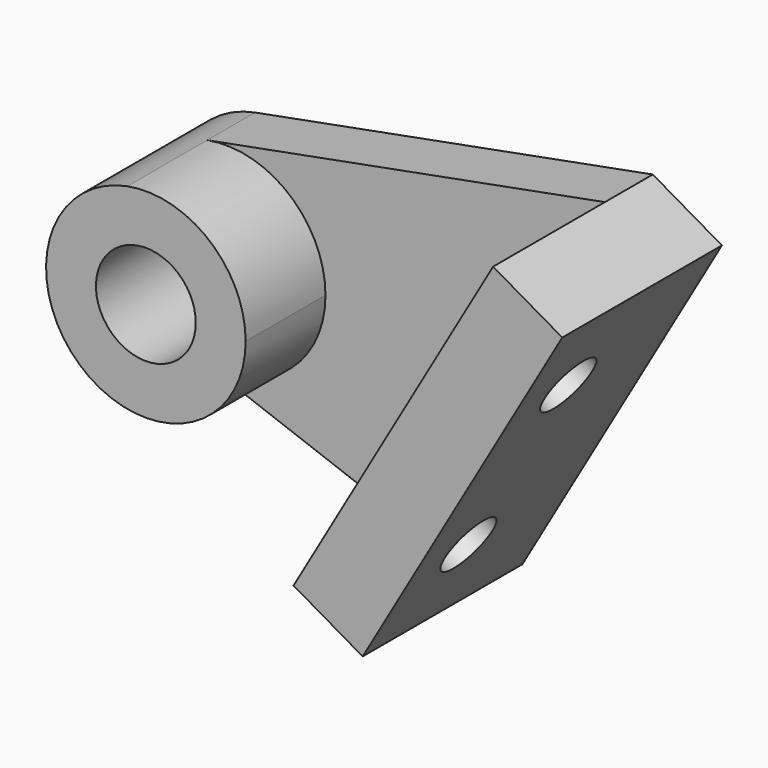
from build123d import *

# Parameters (mm, degrees)
F1_DEPTH = 9.525
F0_R     = 7.9375
F2_DEPTH = 25.4
F3_DEPTH = 31.75
F5_D     = 9.525
F5_DEPTH = 12.7
F5_TIP   = 2.8615986981


with BuildPart() as f1:
    # F0 (on Front) → F1 (new body)
    with BuildSketch(Plane.XZ):
        with BuildLine():
            ThreePointArc((-2.933616207, 15.6015871292), (10.135197771, 12.2185674751), (15.875, 0))
            ThreePointArc((15.875, 0), (9.0714869373, -13.0278067896), (-5.5075196531, -14.8890178411))
            Line((-5.5075196531, -14.8890178411), (28.575, -27.4963065702))
            Line((28.575, -27.4963065702), (60.325, 27.4963065702))
            Line((60.325, 27.4963065702), (-2.933616207, 15.6015871292))
        make_face()
    extrude(amount=F1_DEPTH)

    # F0 (on Front) → F2 (join)
    with BuildSketch(Plane.XZ):
        with BuildLine():
            ThreePointArc((-5.5075196531, -14.8890178411), (9.0714869373, -13.0278067896), (15.875, 0))
            ThreePointArc((15.875, 0), (10.135197771, 12.2185674751), (-2.933616207, 15.6015871292))
            ThreePointArc((-2.933616207, 15.6015871292), (-15.8187370392, 1.3353589349), (-5.5075196531, -14.8890178411))
        make_face()
        Circle(F0_R, mode=Mode.SUBTRACT)
    extrude(amount=F2_DEPTH)

    # F0 (on Front) → F3 (join)
    with BuildSketch(Plane.XZ):
        Polygon((71.3235226281, 21.1463065702), (60.325, 27.4963065702), (28.575, -27.4963065702), (39.5735226281, -33.8463065702), align=None)
    extrude(amount=F3_DEPTH)

    # F5
    with Locations(Plane(origin=(44.3360226281, 0, -25.5974145991), x_dir=(0, 1, 0), z_dir=(0.8660254038, 0, -0.5))):
        with Locations((-20.6375, 6.35), (-20.6375, 38.1)):
            Hole(F5_D / 2, depth=F5_DEPTH)
            with Locations((0, 0, -(F5_DEPTH + F5_TIP / 2))):  # 118° drill point
                Cone(0, F5_D / 2, F5_TIP, mode=Mode.SUBTRACT)


solid = f1.part
